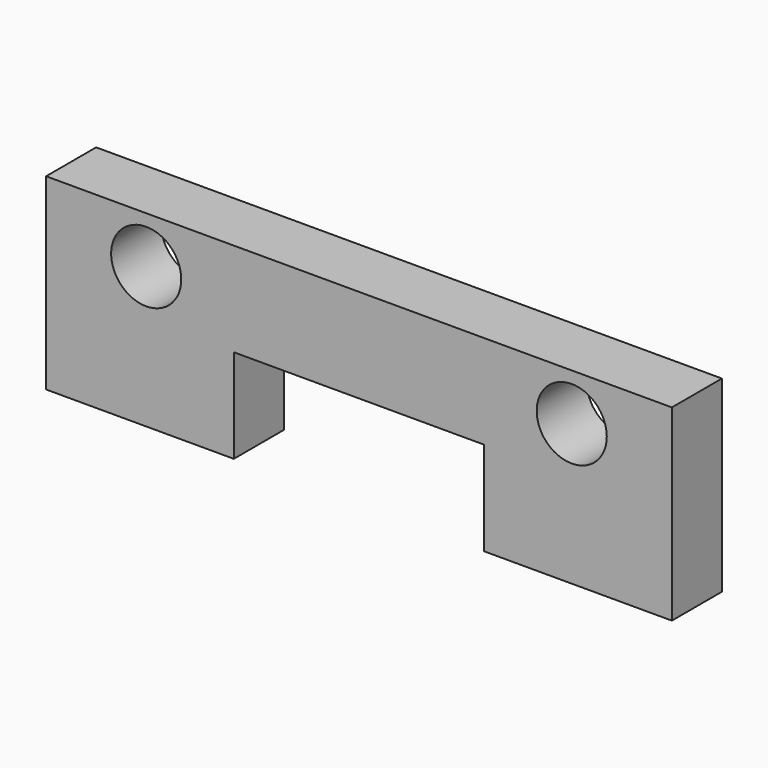
from build123d import *

# Parameters (mm, degrees)
F0_R     = 5.6
F0_W     = 30
F0_H     = 15
F1_DEPTH = 5


with BuildPart() as f1:
    # F0 (on Front) → F1 (new body, symmetric)
    with BuildSketch(Plane.XZ):
        Polygon((50, 7.5), (-50, 7.5), (-50, -7.5), (-20, -7.5), (20, -7.5), (50, -7.5), align=None)
        with Locations((-34, 0)):
            Circle(F0_R, mode=Mode.SUBTRACT)
        with Locations((34, 0)):
            Circle(F0_R, mode=Mode.SUBTRACT)
        with Locations((-35, -15)):
            Rectangle(F0_W, F0_H)
        with Locations((35, -15)):
            Rectangle(F0_W, F0_H)
    extrude(amount=F1_DEPTH, both=True)


solid = f1.part
